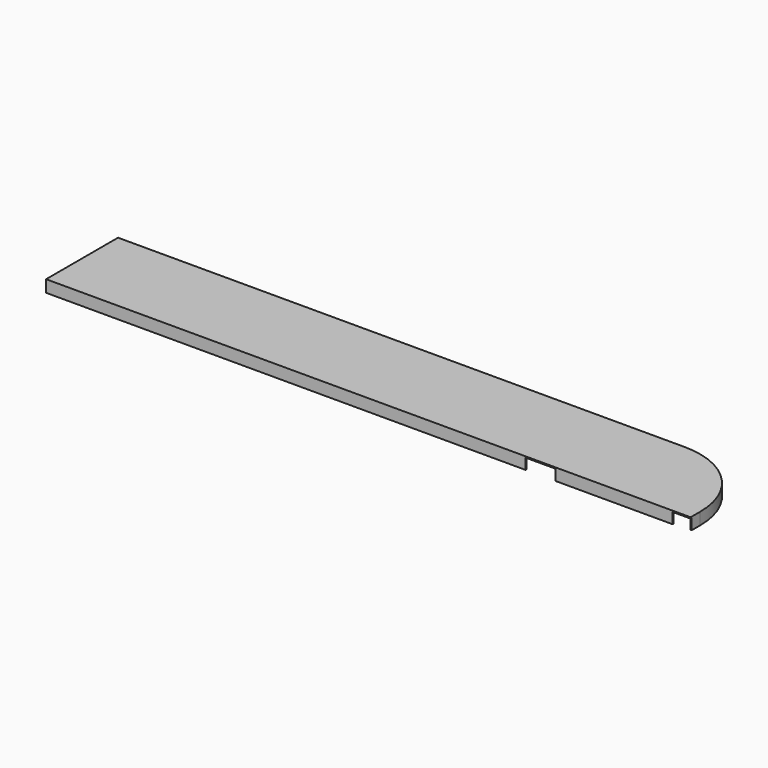
from build123d import *

# Parameters (mm, degrees)
F1_DEPTH = 20
F2_T     = -2
F3_W     = 50
F3_H     = 18
F4_DEPTH = 600
F5_W     = 30
F5_H     = 18
F6_DEPTH = 2


with BuildPart() as f1:
    # F0 (on Top) → F1 (new body)
    with BuildSketch(Plane.XY):
        with BuildLine():
            Line((945, 0), (0, 0))
            Line((0, 0), (0, -150))
            Line((0, -150), (1075, -150))
            Line((1075, -150), (1075, -130))
            ThreePointArc((1075, -130), (1036.923882, -38.076118), (945, 0))
        make_face()
    extrude(amount=F1_DEPTH)

    # F2
    f2_openings = [f1.faces().sort_by_distance(p)[0] for p in [
        (525.800735, -76.057549, 0),
    ]]
    offset(amount=F2_T, openings=f2_openings)

    # F3 (on face) → F4 (cut)
    with BuildSketch(Plane.XZ.offset(150)):
        with Locations((825, 9)):
            Rectangle(F3_W, F3_H)
    extrude(amount=-F4_DEPTH, mode=Mode.SUBTRACT)

    # F5 (on face) → F6 (cut)
    with BuildSketch(Plane.XZ.offset(150)):
        with Locations((1060, 9)):
            Rectangle(F5_W, F5_H)
    extrude(amount=-F6_DEPTH, mode=Mode.SUBTRACT)


solid = f1.part
